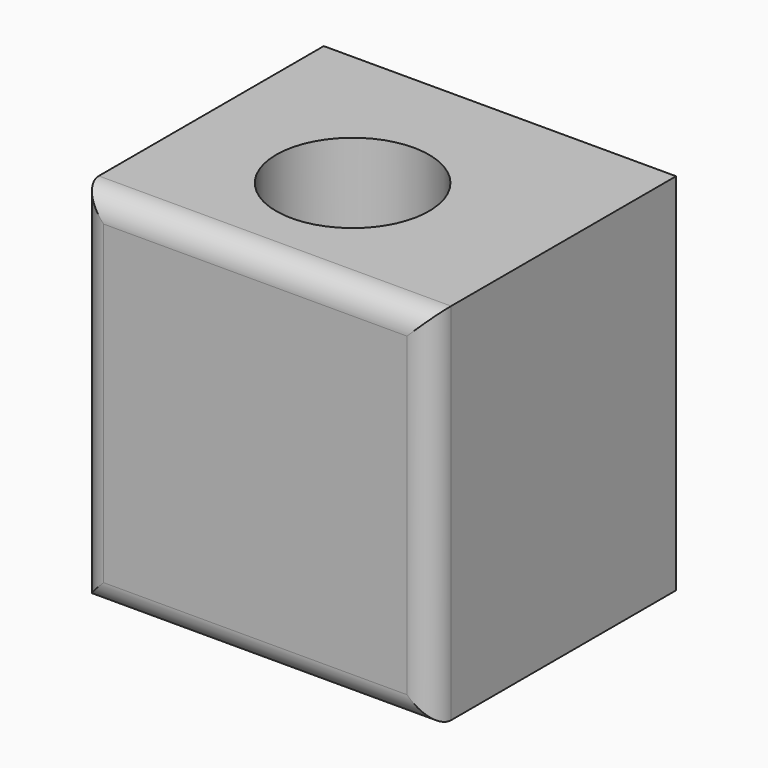
from build123d import *

# Parameters (mm, degrees)
F0_W     = 57.621952
F0_H     = 59.63415
F1_DEPTH = 50
F3_D     = 25
F4_R     = 4


with BuildPart() as f1:
    # F0 (on Front) → F1 (new body)
    with BuildSketch(Plane.XZ):
        Rectangle(F0_W, F0_H)
    extrude(amount=F1_DEPTH)

    # F3 (through all)
    with Locations(Plane(origin=(0, 0, -29.817075), x_dir=(1, 0, 0), z_dir=(0, 0, -1))):
        with Locations((-2.286586, 27.2561)):
            Hole(F3_D / 2)

    # F4
    f4_edges = [f1.edges().sort_by_distance(p)[0] for p in [
        (0, -50, -29.817075),
        (-28.810976, -50, 0),
        (0, -50, 29.817075),
        (28.810976, -50, 0),
    ]]
    fillet(f4_edges, radius=F4_R)


solid = f1.part
